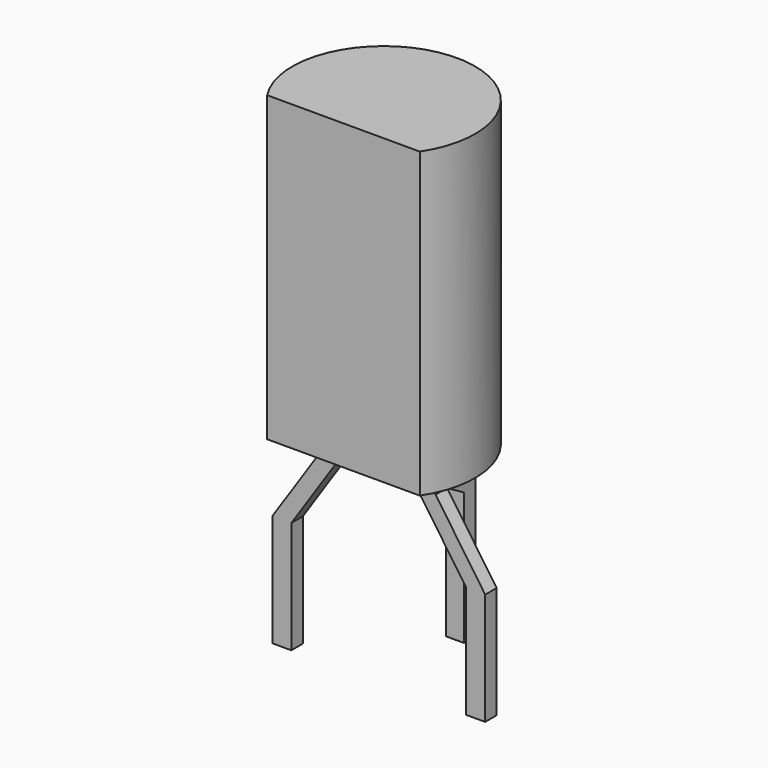
from build123d import *

# Parameters (mm, degrees)
PAD001_DEPTH = 0.19
PAD_DEPTH    = 8
PAD002_DEPTH = 0.24


with BuildPart() as pad001:
    # Sketch001 → Pad001 (new body, symmetric)
    with BuildSketch(Plane.XZ):
        Polygon((0.25, -2.46), (-0.25, -2.46), (-0.25, 0.5), (1.02, 2.4), (1.02, 3.04), (1.52, 3.04), (1.52, 2.4), (0.25, 0.5), align=None)
        Polygon((3.56, 3.04), (4.06, 3.04), (4.06, 2.4), (5.37, 0.5), (5.37, -2.46), (4.87, -2.46), (4.87, 0.5), (3.56, 2.4), align=None)
    extrude(amount=PAD001_DEPTH, both=True)


with BuildPart() as pad:
    # Sketch → Pad (new body)
    with BuildSketch(Plane.XY.offset(3)):
        with BuildLine():
            Line((0.524231, -1.33), (4.555769, -1.33))
            ThreePointArc((4.555769, -1.33), (2.54, 2.415), (0.524231, -1.33))
        make_face()
    extrude(amount=PAD_DEPTH)


with BuildPart() as to_92_wide:
    # Sketch002 → Pad002 (new body, symmetric)
    with BuildSketch(Plane.YZ.offset(2.54)):
        Polygon((-0.19, 3), (0.19, 3), (0.19, 2.7), (2.73, 1.2), (2.73, -2.5), (2.35, -2.5), (2.35, 1), (-0.19, 2.5), align=None)
    extrude(amount=PAD002_DEPTH, both=True)

    add(pad001.part)
    add(pad.part)


solid = to_92_wide.part
